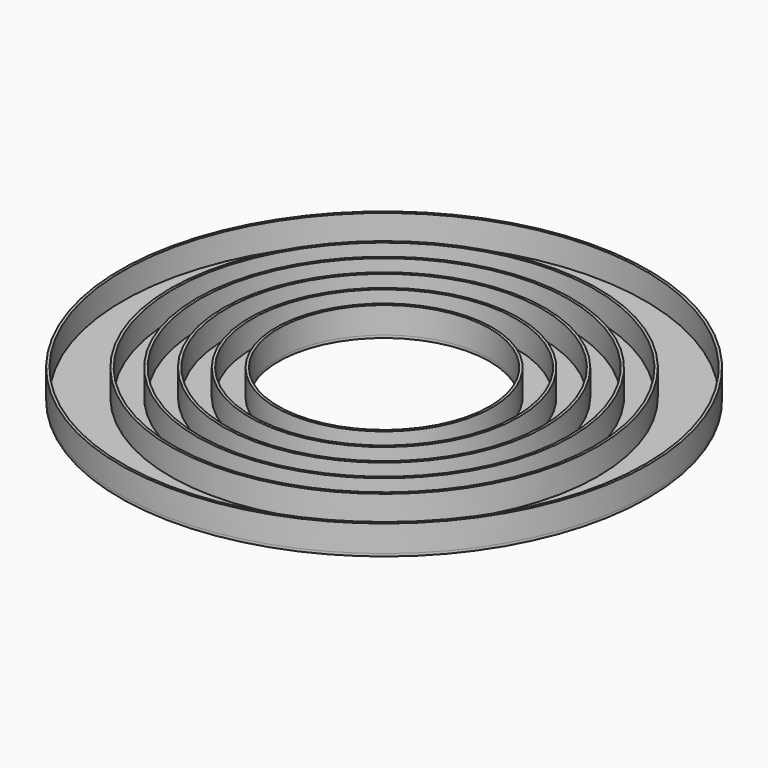
from build123d import *

# Parameters (mm, degrees)
CYLINDER001_R          = 99
CYLINDER001_DEPTH      = 10
CYLINDER_R             = 100
CYLINDER_DEPTH         = 10
CYLINDER002_R          = 80
CYLINDER002_DEPTH      = 10
CYLINDER003_R          = 81
CYLINDER003_DEPTH      = 10
CYLINDER007_R          = 70
CYLINDER007_DEPTH      = 10
CYLINDER006_R          = 71
CYLINDER006_DEPTH      = 10
CYLINDER008_R          = 60
CYLINDER008_DEPTH      = 10
CYLINDER009_R          = 61
CYLINDER009_DEPTH      = 10
CYLINDER010_R          = 50
CYLINDER010_DEPTH      = 10
CYLINDER011_R          = 51
CYLINDER011_DEPTH      = 10
CYLINDER012_R          = 40
CYLINDER012_DEPTH      = 10
CYLINDER013_R          = 41
CYLINDER013_DEPTH      = 10
CYLINDER014_R          = 40
CYLINDER014_DEPTH      = 10
CYLINDER005_R          = 70
CYLINDER005_DEPTH      = 10
CYLINDER004_R          = 81
CYLINDER004_DEPTH      = 10
BOX012_W               = 2
BOX012_H               = 5
BOX012_DEPTH           = 1
BOX012_PLACEMENT_ANGLE = 44
BOX011_W               = 2
BOX011_H               = 5
BOX011_DEPTH           = 1
BOX011_PLACEMENT_ANGLE = 44
BOX010_W               = 2
BOX010_H               = 5
BOX010_DEPTH           = 1
BOX010_PLACEMENT_ANGLE = 315
BOX009_W               = 2
BOX009_H               = 5
BOX009_DEPTH           = 1
BOX009_PLACEMENT_ANGLE = 45
BOX008_W               = 10
BOX008_H               = 8
BOX008_DEPTH           = 1
BOX008_PLACEMENT_ANGLE = 44
CYLINDER016_R          = 40
CYLINDER016_DEPTH      = 1
CYLINDER015_R          = 100
CYLINDER015_DEPTH      = 1


with BuildPart() as cilindro001:
    # Cylinder001 → Cylinder001 (new body)
    with BuildSketch(Plane.XY):
        Circle(CYLINDER001_R)
    extrude(amount=CYLINDER001_DEPTH)


with BuildPart() as cut:
    # Cylinder → Cylinder (new body)
    with BuildSketch(Plane.XY):
        Circle(CYLINDER_R)
    extrude(amount=CYLINDER_DEPTH)

    # Cut: cut Cilindro001
    add(cilindro001.part, mode=Mode.SUBTRACT)


with BuildPart() as cilindro002:
    # Cylinder002 → Cylinder002 (new body)
    with BuildSketch(Plane.XY):
        Circle(CYLINDER002_R)
    extrude(amount=CYLINDER002_DEPTH)


with BuildPart() as cut001:
    # Cylinder003 → Cylinder003 (new body)
    with BuildSketch(Plane.XY):
        Circle(CYLINDER003_R)
    extrude(amount=CYLINDER003_DEPTH)

    # Cut001: cut Cilindro002
    add(cilindro002.part, mode=Mode.SUBTRACT)


with BuildPart() as cilindro007:
    # Cylinder007 → Cylinder007 (new body)
    with BuildSketch(Plane.XY):
        Circle(CYLINDER007_R)
    extrude(amount=CYLINDER007_DEPTH)


with BuildPart() as cut004:
    # Cylinder006 → Cylinder006 (new body)
    with BuildSketch(Plane.XY):
        Circle(CYLINDER006_R)
    extrude(amount=CYLINDER006_DEPTH)

    # Cut004: cut Cilindro007
    add(cilindro007.part, mode=Mode.SUBTRACT)


with BuildPart() as cilindro008:
    # Cylinder008 → Cylinder008 (new body)
    with BuildSketch(Plane.XY):
        Circle(CYLINDER008_R)
    extrude(amount=CYLINDER008_DEPTH)


with BuildPart() as cut005:
    # Cylinder009 → Cylinder009 (new body)
    with BuildSketch(Plane.XY):
        Circle(CYLINDER009_R)
    extrude(amount=CYLINDER009_DEPTH)

    # Cut005: cut Cilindro008
    add(cilindro008.part, mode=Mode.SUBTRACT)


with BuildPart() as cilindro010:
    # Cylinder010 → Cylinder010 (new body)
    with BuildSketch(Plane.XY):
        Circle(CYLINDER010_R)
    extrude(amount=CYLINDER010_DEPTH)


with BuildPart() as cut006:
    # Cylinder011 → Cylinder011 (new body)
    with BuildSketch(Plane.XY):
        Circle(CYLINDER011_R)
    extrude(amount=CYLINDER011_DEPTH)

    # Cut006: cut Cilindro010
    add(cilindro010.part, mode=Mode.SUBTRACT)


with BuildPart() as cilindro012:
    # Cylinder012 → Cylinder012 (new body)
    with BuildSketch(Plane.XY):
        Circle(CYLINDER012_R)
    extrude(amount=CYLINDER012_DEPTH)


with BuildPart() as cut007:
    # Cylinder013 → Cylinder013 (new body)
    with BuildSketch(Plane.XY):
        Circle(CYLINDER013_R)
    extrude(amount=CYLINDER013_DEPTH)

    # Cut007: cut Cilindro012
    add(cilindro012.part, mode=Mode.SUBTRACT)


with BuildPart() as cilindro014:
    # Cylinder014 → Cylinder014 (new body)
    with BuildSketch(Plane.XY):
        Circle(CYLINDER014_R)
    extrude(amount=CYLINDER014_DEPTH)


with BuildPart() as cilindro005:
    # Cylinder005 → Cylinder005 (new body)
    with BuildSketch(Plane.XY):
        Circle(CYLINDER005_R)
    extrude(amount=CYLINDER005_DEPTH)


with BuildPart() as cut002:
    # Cylinder004 → Cylinder004 (new body)
    with BuildSketch(Plane.XY):
        Circle(CYLINDER004_R)
    extrude(amount=CYLINDER004_DEPTH)

    # Cut002: cut Cilindro005
    add(cilindro005.part, mode=Mode.SUBTRACT)


with BuildPart() as cubo012:
    # Box012 → Box012 (new body)
    with BuildSketch(Plane.XY):
        with Locations((1, 2.5)):
            Rectangle(BOX012_W, BOX012_H)
    extrude(amount=BOX012_DEPTH)


with BuildPart() as cubo012_1:
    # Box012 placement: moved
    add(cubo012.part.moved(Location((-60.808516, 63.120144, -1))).rotate(Axis((-60.808516, 63.120144, -1), (0, 0, 1)), BOX012_PLACEMENT_ANGLE))


with BuildPart() as cubo011:
    # Box011 → Box011 (new body)
    with BuildSketch(Plane.XY):
        with Locations((1, 2.5)):
            Rectangle(BOX011_W, BOX011_H)
    extrude(amount=BOX011_DEPTH)


with BuildPart() as cubo011_1:
    # Box011 placement: moved
    add(cubo011.part.moved(Location((-29.757287, 30.965655, -1))).rotate(Axis((-29.757287, 30.965655, -1), (0, 0, 1)), BOX011_PLACEMENT_ANGLE))


with BuildPart() as cubo010:
    # Box010 → Box010 (new body)
    with BuildSketch(Plane.XY):
        with Locations((1, 2.5)):
            Rectangle(BOX010_W, BOX010_H)
    extrude(amount=BOX010_DEPTH)


with BuildPart() as cubo010_1:
    # Box010 placement: moved
    add(cubo010.part.moved(Location((-36.740688, 38.066102, -1))).rotate(Axis((-36.740688, 38.066102, -1), (0, 0, -1)), BOX010_PLACEMENT_ANGLE))


with BuildPart() as cubo009:
    # Box009 → Box009 (new body)
    with BuildSketch(Plane.XY):
        with Locations((1, 2.5)):
            Rectangle(BOX009_W, BOX009_H)
    extrude(amount=BOX009_DEPTH)


with BuildPart() as cubo009_1:
    # Box009 placement: moved
    add(cubo009.part.moved(Location((-43.747961, 45.173784, -1))).rotate(Axis((-43.747961, 45.173784, -1), (0, 0, 1)), BOX009_PLACEMENT_ANGLE))


with BuildPart() as cubo008:
    # Box008 → Box008 (new body)
    with BuildSketch(Plane.XY):
        with Locations((5, 4)):
            Rectangle(BOX008_W, BOX008_H)
    extrude(amount=BOX008_DEPTH)


with BuildPart() as cubo008_1:
    # Box008 placement: moved
    add(cubo008.part.moved(Location((-49.668024, 51.4328, -1))).rotate(Axis((-49.668024, 51.4328, -1), (0, 0, 1)), BOX008_PLACEMENT_ANGLE))


with BuildPart() as cilindro016:
    # Cylinder016 → Cylinder016 (new body)
    with BuildSketch(Plane.XY.offset(-1)):
        Circle(CYLINDER016_R)
    extrude(amount=CYLINDER016_DEPTH)


with BuildPart() as cut016:
    # Cylinder015 → Cylinder015 (new body)
    with BuildSketch(Plane.XY.offset(-1)):
        Circle(CYLINDER015_R)
    extrude(amount=CYLINDER015_DEPTH)

    # Cut009: cut Cilindro016
    add(cilindro016.part, mode=Mode.SUBTRACT)

    # Cut010: cut Cubo008
    add(cubo008_1.part, mode=Mode.SUBTRACT)

    # Cut011: cut Cubo009
    add(cubo009_1.part, mode=Mode.SUBTRACT)

    # Cut012: cut Cubo010
    add(cubo010_1.part, mode=Mode.SUBTRACT)

    # Cut013: cut Cubo011
    add(cubo011_1.part, mode=Mode.SUBTRACT)

    # Cut014: cut Cubo012
    add(cubo012_1.part, mode=Mode.SUBTRACT)

    # Cut015: cut Cut002
    add(cut002.part, mode=Mode.SUBTRACT)

    # Cut016: cut Cilindro014
    add(cilindro014.part, mode=Mode.SUBTRACT)


solid = Compound([cut.part, cut001.part, cut004.part, cut005.part, cut006.part, cut007.part, cut016.part])
